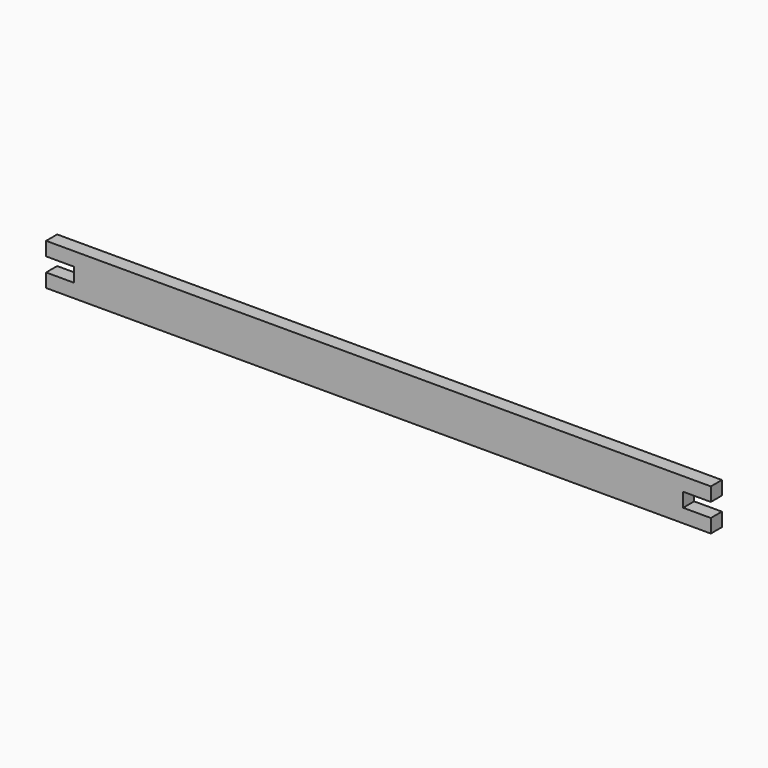
from build123d import *

# Parameters (mm, degrees)
PAD_DEPTH = 2.5


with BuildPart() as part:
    # Sketch → Pad (new body, symmetric)
    with BuildSketch(Plane.XZ):
        Polygon((0, 7.5), (0, 2.55), (10, 2.55), (10, -2.55), (0, -2.55), (0, -7.5), (240, -7.5), (240, -2.55), (230, -2.55), (230, 2.55), (240, 2.55), (240, 7.5), align=None)
    extrude(amount=PAD_DEPTH, both=True)


solid = part.part
